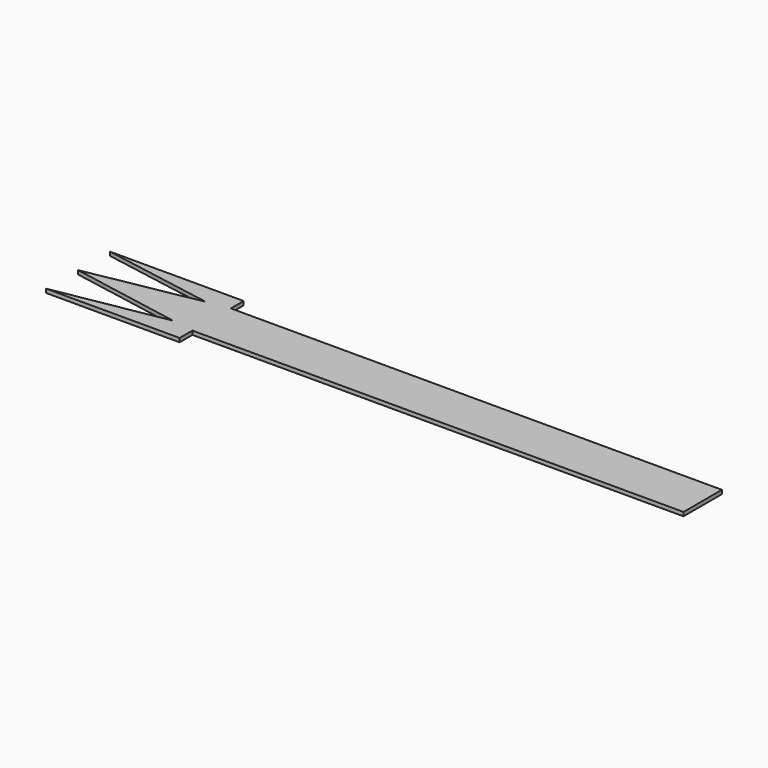
from build123d import *

# Parameters (mm, degrees)
F1_DEPTH = 0.8


with BuildPart() as f1:
    # F0 (on Top) → F1 (new body)
    with BuildSketch(Plane.XY):
        Polygon((130, 5), (27.794756, 5), (27.794756, 8.332893), (0, 8.332893), (23.181744, 4.253501), (0, 0), (27.794756, 0), (130, 0), align=None)
        Polygon((130, -5), (130, 0), (27.794756, 0), (0, 0), (23.181744, -4.253501), (0, -8.332893), (27.794756, -8.332893), (27.794756, -5), align=None)
    extrude(amount=F1_DEPTH)


solid = f1.part
